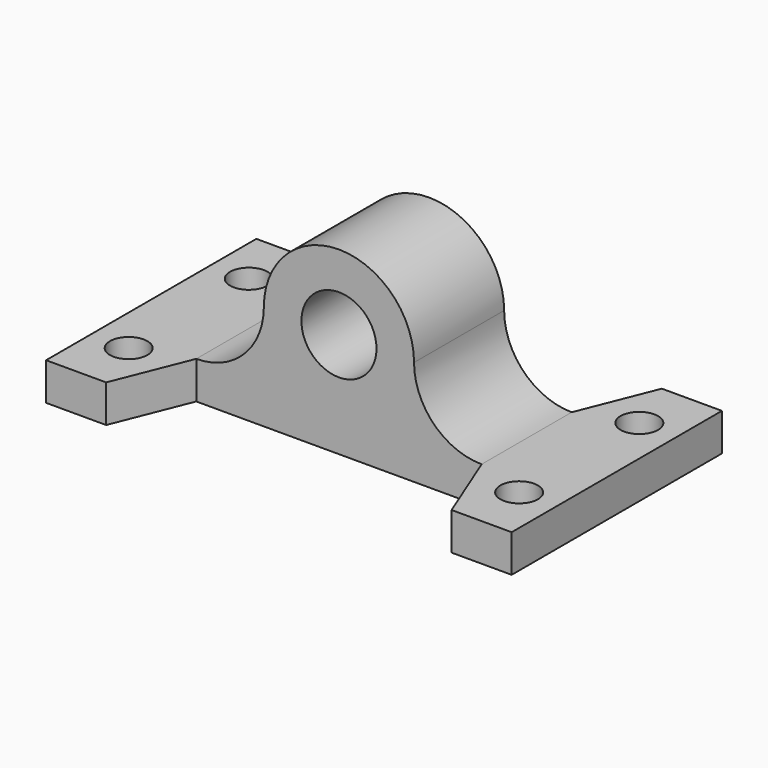
from build123d import *

# Parameters (mm, degrees)
F0_R     = 20
F1_DEPTH = 60
F2_W     = 40
F2_H     = 20
F2_W_2   = 60
F3_DEPTH = 48
F5_DEPTH = 20.001
F7_R     = 10
F8_DEPTH = 20.001


with BuildPart() as f1:
    # F0 (on Front) → F1 (new body)
    with BuildSketch(Plane.XZ):
        with BuildLine():
            ThreePointArc((76, -36), (50.544156, -25.455844), (40, 0))
            ThreePointArc((40, 0), (0, 40), (-40, 0))
            ThreePointArc((-40, 0), (-50.544156, -25.455844), (-76, -36))
            Line((-76, -36), (-76, -56))
            Line((-76, -56), (76, -56))
            Line((76, -56), (76, -36))
        make_face()
        Circle(F0_R, mode=Mode.SUBTRACT)
    extrude(amount=F1_DEPTH)

    # F2 (on face) → F3 (join)
    with BuildSketch(Plane.YZ.offset(76)):
        with Locations((-80, -46)):
            Rectangle(F2_W, F2_H)
        with Locations((20, -46)):
            Rectangle(F2_W, F2_H)
        with Locations((-30, -46)):
            Rectangle(F2_W_2, F2_H)
    extrude(amount=F3_DEPTH)

    # F4 (on face) → F5 (cut, through all)
    with BuildSketch(Plane.XY.offset(-36)):
        Polygon((76, 0), (92, 40), (76, 40), align=None)
        Polygon((76, -100), (92, -100), (76, -60), align=None)
    extrude(amount=-F5_DEPTH, mode=Mode.SUBTRACT)

    # F6: F1 across plane


with BuildPart() as f1_1:
    add(f1.part)
    add(f1.part.mirror(Plane.YZ))

    # F7 (on face) → F8 (cut, through all)
    with BuildSketch(Plane.XY.offset(-36)):
        with Locations((-104, -70)):
            Circle(F7_R)
        with Locations((-104, 10)):
            Circle(F7_R)
    extrude(amount=-F8_DEPTH, mode=Mode.SUBTRACT)

    # F9: F1 across plane


with BuildPart() as f1_2:
    add(f1_1.part)
    add(f1_1.part.mirror(Plane.YZ), mode=Mode.INTERSECT)


solid = f1_2.part
